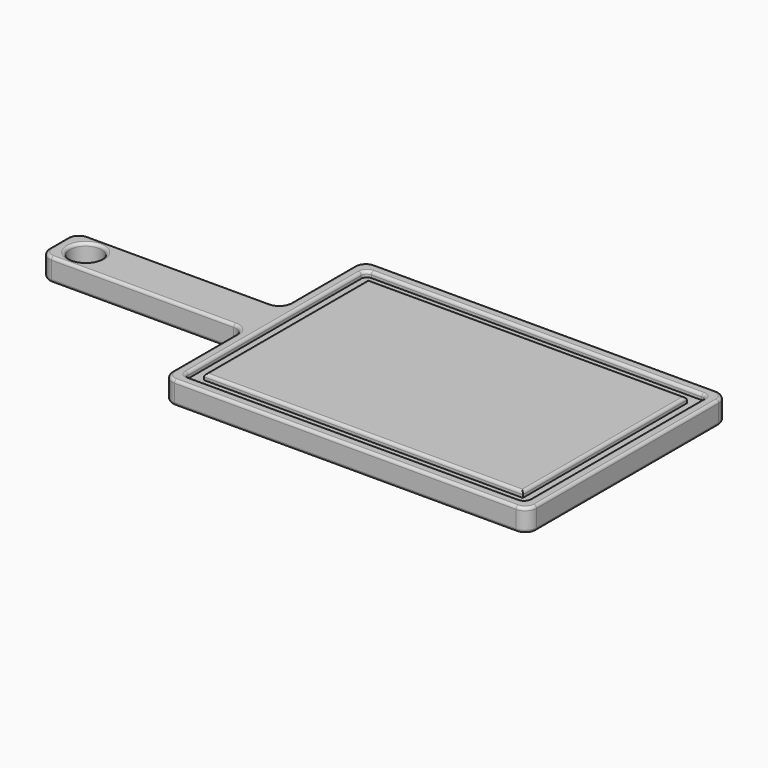
from build123d import *

# Parameters (mm, degrees)
F0_W     = 228.6
F0_H     = 50.8
F1_DEPTH = 25.4
F3_DEPTH = 25.4
F2_R     = 17.78
F4_DEPTH = 25.4
F6_DEPTH = 6.35
F7_R     = 6.35
F8_R     = 12.7
F9_R     = 3.175


with BuildPart() as f1:
    # F0 (on Top) → F1 (new body)
    with BuildSketch(Plane.XY):
        with Locations((-114.3, 139.7)):
            Rectangle(F0_W, F0_H)
        Polygon((0, 114.3), (0, 0), (406.4, 0), (406.4, 279.4), (0, 279.4), (0, 165.1), align=None)
    extrude(amount=F1_DEPTH)

    # F0 (on Top) → F3 (join)
    with BuildSketch(Plane.XY):
        Polygon((0, 114.3), (0, 0), (406.4, 0), (406.4, 279.4), (0, 279.4), (0, 165.1), align=None)
        with Locations((-114.3, 139.7)):
            Rectangle(F0_W, F0_H)
    extrude(amount=F3_DEPTH)

    # F2 (on face) → F4 (cut)
    with BuildSketch(Plane.XY.offset(25.4)):
        with Locations((-198.12, 139.7)):
            Circle(F2_R)
    extrude(amount=-F4_DEPTH, mode=Mode.SUBTRACT)

    # F5 (on face) → F6 (cut)
    with BuildSketch(Plane.XY.offset(25.4)):
        Polygon((12.7000004292, 114.3), (12.7000004292, 12.7000004292), (393.6999995708, 12.7000004292), (393.6999995708, 266.6999995708), (12.7000004292, 266.6999995708), (12.7000004292, 165.1), align=None)
        Polygon((25.3999918938, 114.3), (25.3999918938, 165.1), (25.3999918938, 254.0000081062), (381.0000081062, 254.0000081062), (381.0000081062, 25.3999918938), (25.3999918938, 25.3999918938), align=None, mode=Mode.SUBTRACT)
    extrude(amount=-F6_DEPTH, mode=Mode.SUBTRACT)

    # F7
    f7_edges = [f1.edges().sort_by_distance(p)[0] for p in [
        (12.7, 266.7, 22.225),
        (393.7, 266.7, 22.225),
        (393.7, 12.7, 22.225),
        (12.7, 12.7, 22.225),
    ]]
    fillet(f7_edges, radius=F7_R)

    # F8
    f8_edges = [f1.edges().sort_by_distance(p)[0] for p in [
        (0, 0, 12.7),
        (0, 279.4, 12.7),
        (406.4, 279.4, 12.7),
        (406.4, 0, 12.7),
        (-228.6, 114.3, 12.7),
        (-228.6, 165.1, 12.7),
        (0, 165.1, 12.7),
        (0, 114.3, 12.7),
    ]]
    fillet(f8_edges, radius=F8_R)

    # F9
    f9_edges = [f1.edges().sort_by_distance(p)[0] for p in [
        (203.2, 254.000008, 25.4),
        (381.000008, 139.7, 25.4),
        (203.2, 25.399992, 25.4),
        (25.399992, 139.7, 25.4),
        (-114.3, 114.3, 25.4),
        (-224.880256, 118.019744, 25.4),
        (-3.719744, 110.580256, 25.4),
        (-228.6, 139.7, 25.4),
        (0, 57.15, 25.4),
        (-224.880256, 161.380256, 25.4),
        (3.719744, 3.719744, 25.4),
        (-114.3, 165.1, 25.4),
        (203.2, 0, 25.4),
        (-3.719744, 168.819744, 25.4),
        (402.680256, 3.719744, 25.4),
        (0, 222.25, 25.4),
        (406.4, 139.7, 25.4),
        (3.719744, 275.680256, 25.4),
        (402.680256, 275.680256, 25.4),
        (203.2, 279.4, 25.4),
        (203.2, 12.7, 25.4),
        (14.559872, 14.559872, 25.4),
        (391.840128, 14.559872, 25.4),
        (12.7, 139.7, 25.4),
        (393.7, 139.7, 25.4),
        (14.559872, 264.840128, 25.4),
        (391.840128, 264.840128, 25.4),
        (203.2, 266.7, 25.4),
        (-215.9, 139.7, 25.4),
        (-114.3, 114.3, 0),
        (-224.880256, 118.019744, 0),
        (-3.719744, 110.580256, 0),
        (-228.6, 139.7, 0),
        (0, 57.15, 0),
        (-224.880256, 161.380256, 0),
        (3.719744, 3.719744, 0),
        (-114.3, 165.1, 0),
        (203.2, 0, 0),
        (-3.719744, 168.819744, 0),
        (402.680256, 3.719744, 0),
        (0, 222.25, 0),
        (406.4, 139.7, 0),
        (3.719744, 275.680256, 0),
        (402.680256, 275.680256, 0),
        (203.2, 279.4, 0),
        (-215.9, 139.7, 0),
    ]]
    fillet(f9_edges, radius=F9_R)


solid = f1.part
